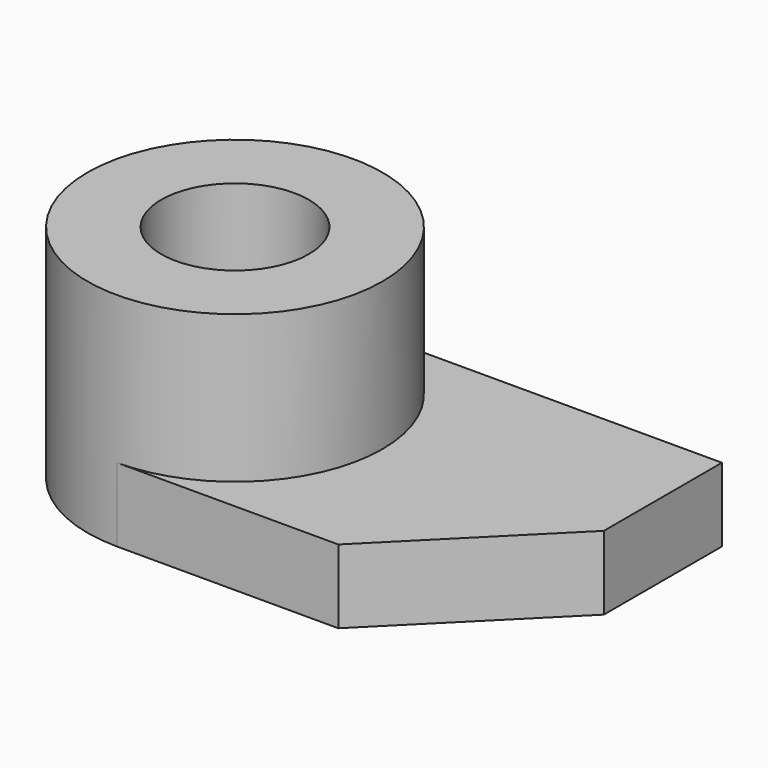
from build123d import *

# Parameters (mm, degrees)
F0_R     = 12.7
F0_R_2   = 6.35
F1_DEPTH = 19.05
F2_W     = 31.75
F2_H     = 6.35
F3_DEPTH = 12.7
F5_DEPTH = 6.35


with BuildPart() as f1:
    # F0 (on Top) → F1 (new body)
    with BuildSketch(Plane.XY):
        Circle(F0_R)
        Circle(F0_R_2, mode=Mode.SUBTRACT)
    extrude(amount=F1_DEPTH)

    # F2 (on Front) → F3 (join, symmetric)
    with BuildSketch(Plane.XZ):
        with Locations((15.875, 3.175)):
            Rectangle(F2_W, F2_H)
    extrude(amount=F3_DEPTH, both=True)

    # F4 (on face) → F5 (cut)
    with BuildSketch(Plane.XY.offset(6.35)):
        Polygon((31.75, -12.7), (31.75, 0), (19.05, -12.7), align=None)
    extrude(amount=-F5_DEPTH, mode=Mode.SUBTRACT)


solid = f1.part
